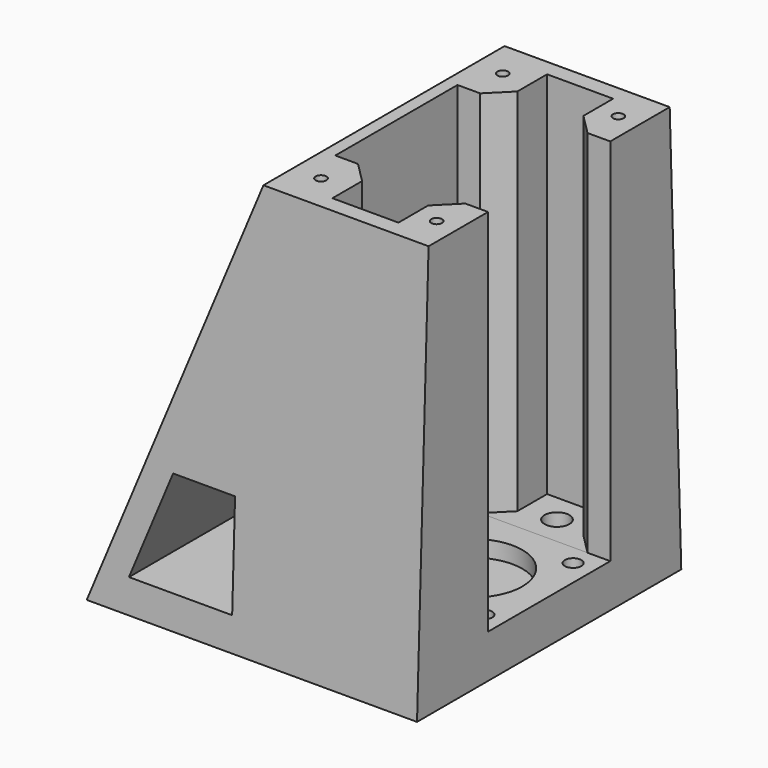
from build123d import *

# Parameters (mm, degrees)
SKETCH007_W     = 80
SKETCH007_H     = 80
PAD005_DEPTH    = 100
POCKET001_DEPTH = 80.001
POCKET002_DEPTH = 80.001
SKETCH011_W     = 37
SKETCH011_H     = 1660.928571
POCKET003_DEPTH = 37
SKETCH012_R     = 12
POCKET004_DEPTH = 4
SKETCH013_R     = 2
POCKET005_DEPTH = 10.501
SKETCH014_R     = 3
POCKET006_DEPTH = 4.5
SKETCH016_W     = 16
SKETCH016_H     = 89.5
POCKET008_DEPTH = 14
SKETCH024_W     = 16
SKETCH024_H     = 89.5
POCKET015_DEPTH = 14
SKETCH018_R     = 3
POCKET010_DEPTH = 5
SKETCH022_R     = 1.3
POCKET013_DEPTH = 10
CHAMFER_SIZE    = 5


with BuildPart() as part:
    # Sketch007 → Pad005 (new body)
    with BuildSketch(Plane.XY):
        Rectangle(SKETCH007_W, SKETCH007_H)
    extrude(amount=PAD005_DEPTH)

    # Sketch008 (on Face2 of Pad005) → Pocket001 (cut, through all)
    with BuildSketch(Plane.XZ.offset(40)):
        Polygon((-40, 0), (0, 100), (-40, 100), align=None)
        Polygon((-30, 8), (-5, 8), (-5, 33), (-20, 33), align=None)
    extrude(amount=-POCKET001_DEPTH, mode=Mode.SUBTRACT)

    # Sketch009 (on Face4 of Pocket001) → Pocket002 (cut, through all)
    with BuildSketch(Plane.YZ.offset(40)):
        Polygon((-36.5, 100), (-40, 0), (-40, 100), align=None)
        Polygon((40, 0), (36.5, 100), (40, 100), align=None)
    extrude(amount=-POCKET002_DEPTH, mode=Mode.SUBTRACT)

    # Sketch011 (on Face4 of Pocket002) → Pocket003 (cut)
    with BuildSketch(Plane.YZ.offset(40)):
        with Locations((0, 840.964285)):
            Rectangle(SKETCH011_W, SKETCH011_H)
    extrude(amount=-POCKET003_DEPTH, mode=Mode.SUBTRACT)

    # Sketch012 (on Face12 of Pocket003) → Pocket004 (cut)
    with BuildSketch(Plane.XY.offset(10.5)):
        with Locations((21.5, 0)):
            Circle(SKETCH012_R)
    extrude(amount=-POCKET004_DEPTH, mode=Mode.SUBTRACT)

    # Sketch013 (on Face12 of Pocket004) → Pocket005 (cut, through all)
    with BuildSketch(Plane.XY.offset(10.5)):
        with Locations((8, 13.5)):
            Circle(SKETCH013_R)
        with Locations((35, 13.5)):
            Circle(SKETCH013_R)
        with Locations((35, -13.5)):
            Circle(SKETCH013_R)
        with Locations((8, -13.5)):
            Circle(SKETCH013_R)
    extrude(amount=-POCKET005_DEPTH, mode=Mode.SUBTRACT)

    # Sketch014 (on Face1 of Pocket005) → Pocket006 (cut)
    with BuildSketch(Plane(origin=(0, 0, 0), x_dir=(1, 0, 0), z_dir=(0, 0, -1))):
        with Locations((8, 13.5)):
            Circle(SKETCH014_R)
        with Locations((35, 13.5)):
            Circle(SKETCH014_R)
        with Locations((35, -13.5)):
            Circle(SKETCH014_R)
        with Locations((8, -13.5)):
            Circle(SKETCH014_R)
    extrude(amount=-POCKET006_DEPTH, mode=Mode.SUBTRACT)

    # Sketch016 (on Face15 of Pocket006) → Pocket008 (cut)
    with BuildSketch(Plane.XZ.offset(-18.5)):
        with Locations((21.5, 55.25)):
            Rectangle(SKETCH016_W, SKETCH016_H)
    extrude(amount=-POCKET008_DEPTH, mode=Mode.SUBTRACT)

    # Sketch024 (on Face16 of Pocket008) → Pocket015 (cut)
    with BuildSketch(Plane(origin=(0, -18.5, 0), x_dir=(-1, 0, 0), z_dir=(0, 1, 0))):
        with Locations((-21.5, 55.25)):
            Rectangle(SKETCH024_W, SKETCH024_H)
    extrude(amount=-POCKET015_DEPTH, mode=Mode.SUBTRACT)

    # Sketch018 (on Face34 of Pocket015) → Pocket010 (cut)
    with BuildSketch(Plane.XY.offset(10.5)):
        with Locations((21.5, -25.5)):
            Circle(SKETCH018_R)
        with Locations((21.5, 25.5)):
            Circle(SKETCH018_R)
    extrude(amount=-POCKET010_DEPTH, mode=Mode.SUBTRACT)

    # Sketch022 (on Face10 of Pocket010) → Pocket013 (cut)
    with BuildSketch(Plane.XY.offset(100)):
        with Locations((6.75, 27.5)):
            Circle(SKETCH022_R)
        with Locations((34.75, 27.5)):
            Circle(SKETCH022_R)
        with Locations((6.75, -27.5)):
            Circle(SKETCH022_R)
        with Locations((34.75, -27.5)):
            Circle(SKETCH022_R)
    extrude(amount=-POCKET013_DEPTH, mode=Mode.SUBTRACT)

    # Chamfer
    chamfer_edges = [part.edges().sort_by_distance(p)[0] for p in [
        (29.5, -18.5, 55.25),
        (13.5, -18.5, 55.25),
        (13.5, 18.5, 55.25),
        (29.5, 18.5, 55.25),
    ]]
    chamfer(chamfer_edges, length=CHAMFER_SIZE)


solid = part.part
